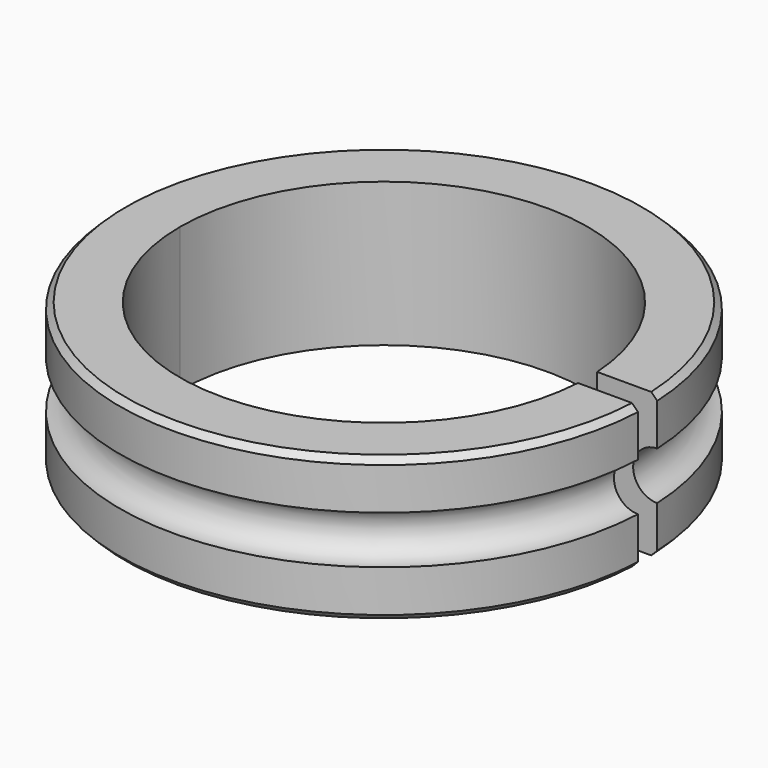
from build123d import *

# Parameters (mm, degrees)
F2_W     = 10
F2_H     = 2
F3_DEPTH = 12.5
F4_SIZE  = 0.5


with BuildPart() as f1:
    # F0 (on Front) → F1 (revolve)
    with BuildSketch(Plane.XZ):
        with BuildLine():
            Line((-17, -6), (-17, 0))
            Line((-17, 0), (-17, 6))
            Line((-17, 6), (-22, 6))
            Line((-22, 6), (-22, 2))
            ThreePointArc((-22, 2), (-20, 0), (-22, -2))
            Line((-22, -2), (-22, -6))
            Line((-22, -6), (-17, -6))
        make_face()
    revolve(axis=Axis((0, 0, 3.54172), (0, 0, 1)))

    # F2 (on Top) → F3 (cut, symmetric)
    with BuildSketch(Plane.XY):
        with Locations((20, 0)):
            Rectangle(F2_W, F2_H)
    extrude(amount=F3_DEPTH, both=True, mode=Mode.SUBTRACT)

    # F4
    f4_edges = [f1.edges().sort_by_distance(p)[0] for p in [
        (-0.500129, -21.994315, -6),
        (-0.500129, -21.994315, 6),
    ]]
    chamfer(f4_edges, length=F4_SIZE)


solid = f1.part
